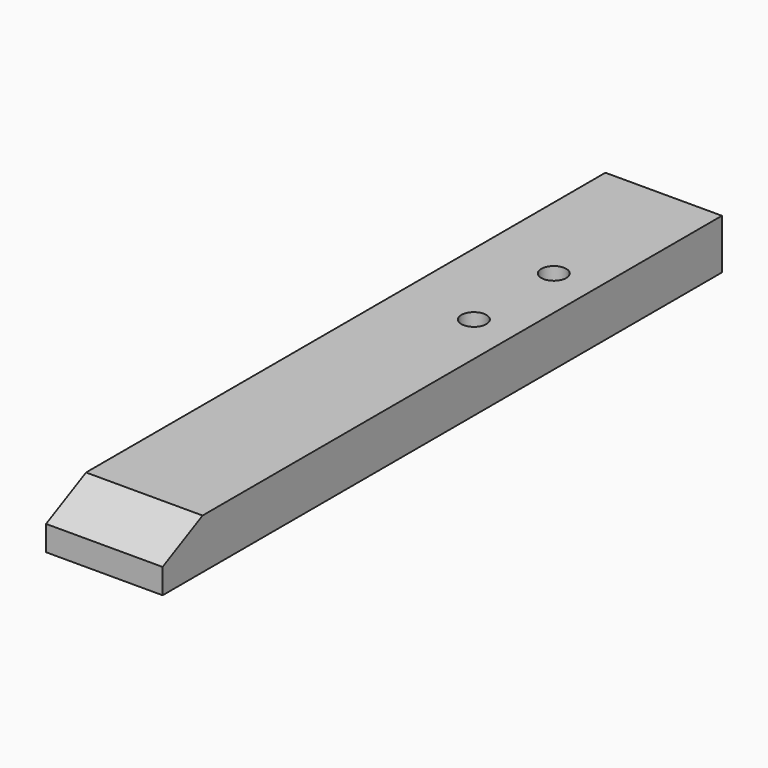
from build123d import *

# Parameters (mm, degrees)
F0_W     = 88.9
F0_H     = 38.1
F1_DEPTH = 266.7
F3_DEPTH = 88.901
F4_R     = 9.525
F5_DEPTH = 38.101


with BuildPart() as f1:
    # F0 (on Front) → F1 (new body, symmetric)
    with BuildSketch(Plane.XZ):
        with Locations((2.043676, -0.6204)):
            Rectangle(F0_W, F0_H)
    extrude(amount=F1_DEPTH, both=True)

    # F2 (on face) → F3 (cut, through all)
    with BuildSketch(Plane.YZ.offset(46.493676)):
        Polygon((-266.7, -0.6204), (-228.6, 18.4296), (-266.7, 18.4296), align=None)
    extrude(amount=-F3_DEPTH, mode=Mode.SUBTRACT)

    # F4 (on face) → F5 (cut, through all)
    with BuildSketch(Plane.XY.offset(18.4296)):
        with Locations((14.743676, 146.05)):
            Circle(F4_R)
        with Locations((14.743676, 69.85)):
            Circle(F4_R)
    extrude(amount=-F5_DEPTH, mode=Mode.SUBTRACT)


solid = f1.part
